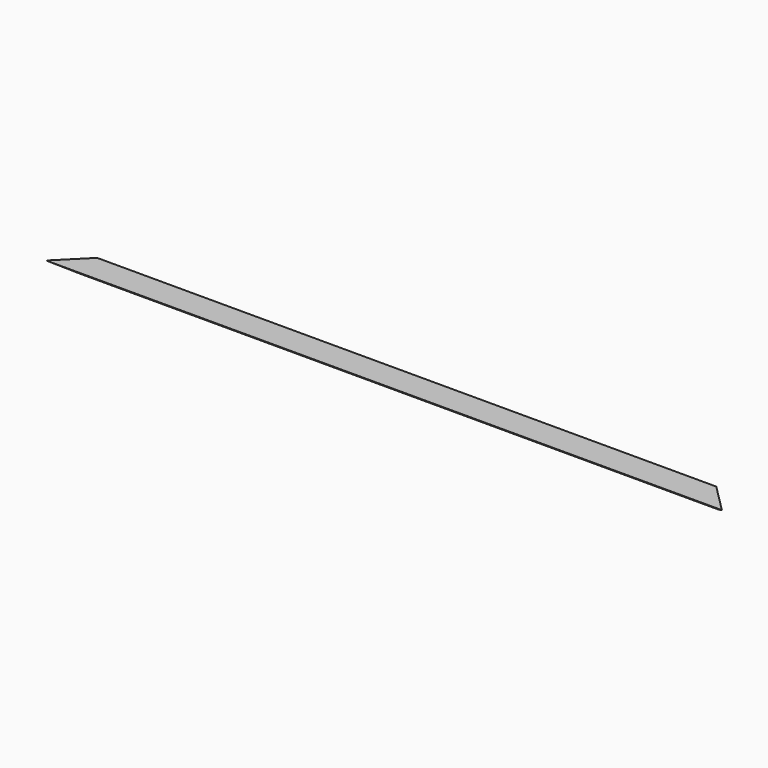
from build123d import *

# Parameters (mm, degrees)
F1_DEPTH      = 508
F1_DEPTH_BACK = 508
F3_DEPTH      = 19.051


with BuildPart() as f1:
    # F0 (on Right) → F1 (new body, two sides)
    with BuildSketch(Plane.YZ) as f1_sk:
        Polygon((0, 0), (0, 19.05), (-41.91, 19.05), (-14.70378, 0), align=None)
    extrude(amount=F1_DEPTH)
    extrude(f1_sk.sketch, amount=-F1_DEPTH_BACK)

    # F2 (on Top) → F3 (cut, through all)
    with BuildSketch(Plane.XY):
        Polygon((509.683742, 0), (457.2, 0), (509.683742, -52.483742), align=None)
        Polygon((-509.683742, -52.483742), (-457.2, 0), (-509.683742, 0), align=None)
    extrude(amount=F3_DEPTH, mode=Mode.SUBTRACT)


solid = f1.part
